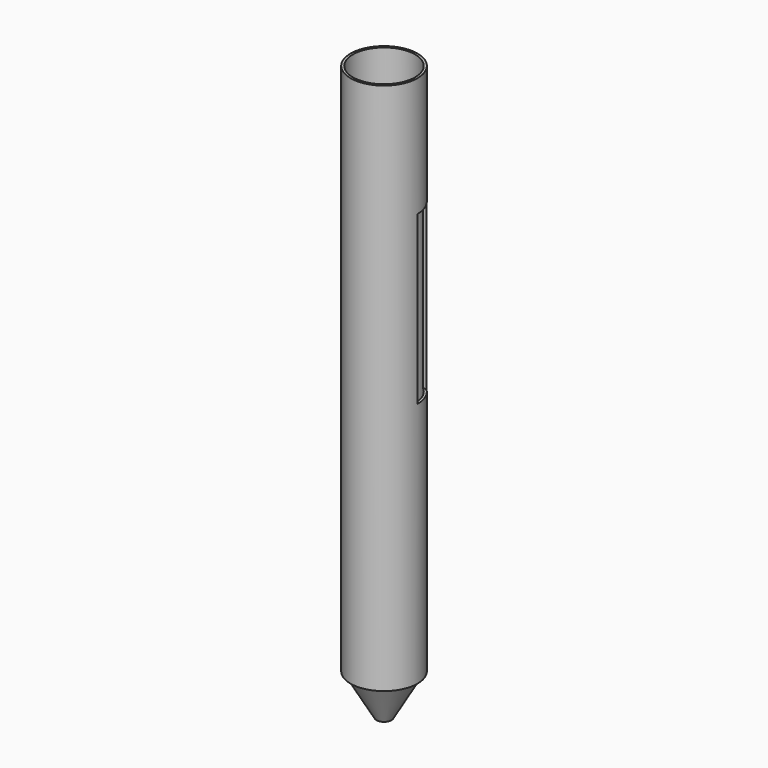
from build123d import *

# Parameters (mm, degrees)
SKETCH_R             = 7
SKETCH_R_2           = 6.5
PAD_DEPTH            = 120
REVOLUTION_FACE7_R   = 7
REVOLUTION_FACE7_R_2 = 6.5
POCKET_DEPTH         = 8.5
SKETCH003_W          = 5
SKETCH003_H          = 35
POCKET001_DEPTH      = 5


with BuildPart() as part:
    # Sketch → Pad (new body)
    with BuildSketch(Plane.XY):
        Circle(SKETCH_R)
        Circle(SKETCH_R_2, mode=Mode.SUBTRACT)
    extrude(amount=PAD_DEPTH)

    # Sketch001 → Revolution (revolve)
    with BuildSketch(Plane.XZ):
        Polygon((0.917134, 0), (7, 10.535833), (7, 9.41), (1.567134, 0), align=None)
    revolve(axis=Axis((0, 0, 0), (0, 0, 1)))

    # Revolution Face7 → Pocket (cut)
    with BuildSketch(Plane(origin=(0, 0, 0), x_dir=(0, -1, 0), z_dir=(0, 0, -1))):
        Circle(REVOLUTION_FACE7_R)
        Circle(REVOLUTION_FACE7_R_2, mode=Mode.SUBTRACT)
    extrude(amount=-POCKET_DEPTH, mode=Mode.SUBTRACT)

    # Sketch003 → Pocket001 (cut)
    with BuildSketch(Plane.XZ):
        with Locations((4.91, 77.5)):
            Rectangle(SKETCH003_W, SKETCH003_H)
    extrude(amount=-POCKET001_DEPTH, mode=Mode.SUBTRACT)


solid = part.part
